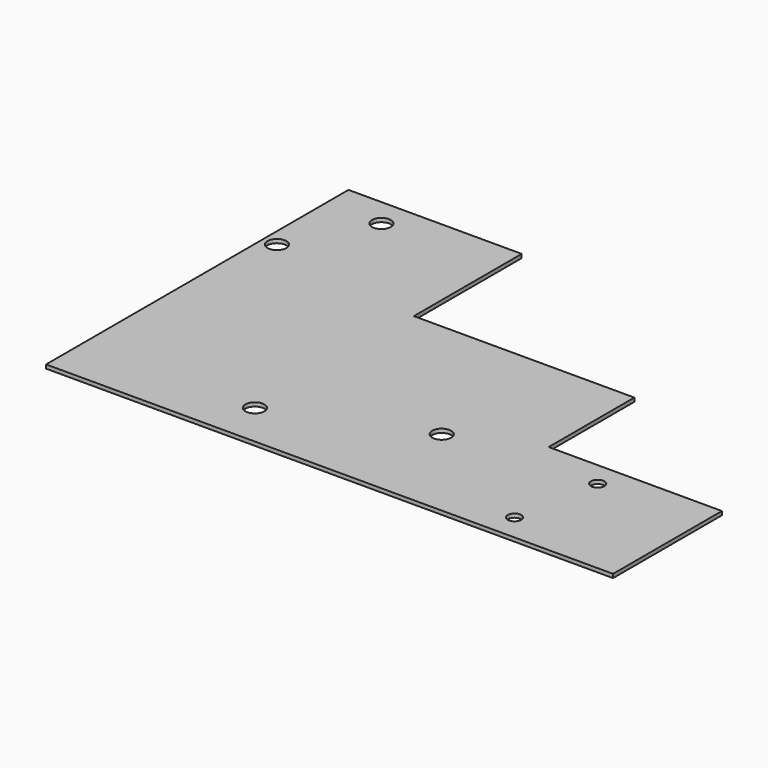
from build123d import *

# Parameters (mm, degrees)
F1_DEPTH = 0.762
F2_R     = 1.905
F3_DEPTH = 0.763
F4_R     = 1.35255
F5_DEPTH = 0.763


with BuildPart() as f1:
    # F0 (on Top) → F1 (new body)
    with BuildSketch(Plane.XY):
        Polygon((0, 76.2), (0, 0), (114.3, 0), (114.3, 27.432), (79.375, 27.432), (79.375, 49.022), (34.925, 49.022), (34.925, 76.2), align=None)
    extrude(amount=F1_DEPTH)

    # F2 (on face) → F3 (cut, through all)
    with BuildSketch(Plane.XY.offset(0.762)):
        with Locations((11.2014, 70.485)):
            Circle(F2_R)
        with Locations((2.8448, 54.61)):
            Circle(F2_R)
        with Locations((34.925, 8.9662)):
            Circle(F2_R)
        with Locations((63.5, 20.32)):
            Circle(F2_R)
    extrude(amount=-F3_DEPTH, mode=Mode.SUBTRACT)

    # F4 (on face) → F5 (cut, through all)
    with BuildSketch(Plane.XY.offset(0.762)):
        with Locations((93.218, 22.479)):
            Circle(F4_R)
        with Locations((90.17, 5.334)):
            Circle(F4_R)
    extrude(amount=-F5_DEPTH, mode=Mode.SUBTRACT)


solid = f1.part
